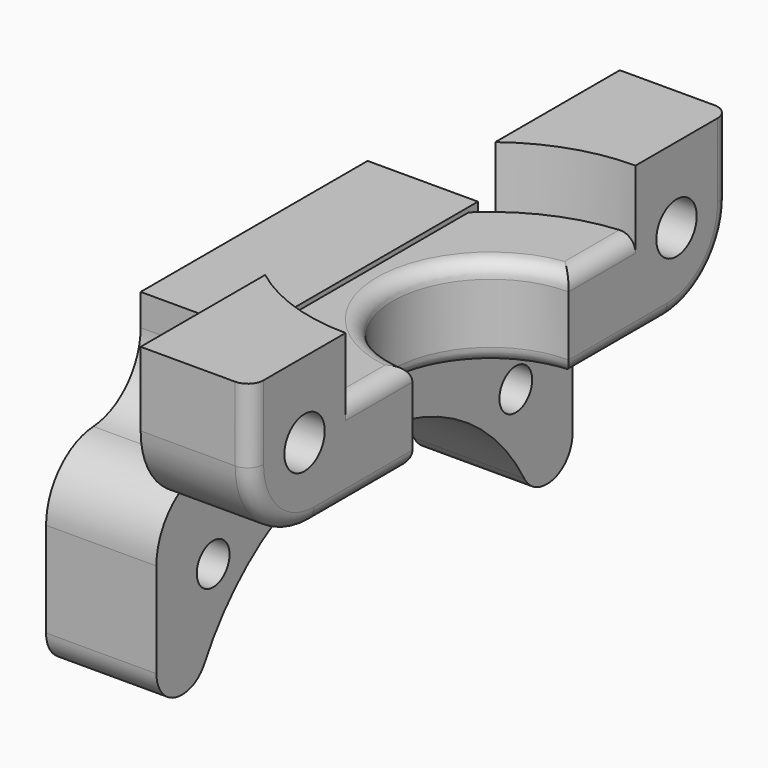
from build123d import *

# Parameters (mm, degrees)
PAD008_DEPTH    = 9.7
POCKET002_DEPTH = 3.9
PAD009_DEPTH    = 7
SKETCH048_R     = 1.6
SKETCH048_R_2   = 1.3
POCKET030_DEPTH = 15.001
FILLET006_R     = 5
FILLET007_R     = 2
FILLET008_R     = 1


with BuildPart() as part:
    # Sketch045 → Pad008 (new body)
    with BuildSketch(Plane.XY):
        with BuildLine():
            Line((-7, 19), (0, 19))
            Line((0, 19), (0, 6.2))
            ThreePointArc((0, 6.2), (-6.2, 0), (0, -6.2))
            Line((0, -6.2), (0, -19))
            Line((0, -19), (-7, -19))
            Line((-7, -19), (-7, -9.1241437954))
            ThreePointArc((-7, 9.1241437954), (-11.5, 0), (-7, -9.1241437954))
            Line((-7, 9.1241437954), (-7, 19))
        make_face()
    extrude(amount=-PAD008_DEPTH)

    # Sketch046 → Pocket002 (cut)
    with BuildSketch(Plane.XY):
        with BuildLine():
            Line((0, 11.5), (0, 6.2))
            ThreePointArc((0, 6.2), (-6.2, 0), (0, -6.2))
            Line((0, -6.2), (0, -11.5))
            ThreePointArc((0, 11.5), (-11.5, 0), (0, -11.5))
        make_face()
    extrude(amount=-POCKET002_DEPTH, mode=Mode.SUBTRACT)

    # Sketch047 → Pad009 (join)
    with BuildSketch(Plane.YZ.offset(-15)):
        with BuildLine():
            ThreePointArc((13.2003787824, -21.6), (0, -13.1), (-13.2003787824, -21.6))
            Line((-16.5, -21.6), (-13.2003787824, -21.6))
            Line((-16.5, -13.5843597113), (-16.5, -21.6))
            ThreePointArc((-12.75, -9.5921798557), (-15.4154759474, -10.8457469238), (-16.5, -13.5843597113))
            ThreePointArc((-12.75, -9.5921798557), (-10.0845240526, -8.3386127875), (-9, -5.6))
            Line((-9, -5.6), (-9, -3.6))
            Line((-9, -3.6), (9, -3.6))
            Line((9, -3.6), (9, -5.6))
            ThreePointArc((9, -5.6), (10.0845240526, -8.3386127875), (12.75, -9.5921798557))
            ThreePointArc((16.5, -13.5843597113), (15.4154759474, -10.8457469238), (12.75, -9.5921798557))
            Line((16.5, -13.5843597113), (16.5, -21.6))
            Line((16.5, -21.6), (13.2003787824, -21.6))
        make_face()
    extrude(amount=PAD009_DEPTH)

    # Sketch048 → Pocket030 (cut, through all)
    with BuildSketch(Plane.YZ):
        with Locations((-14.75, -4.8)):
            Circle(SKETCH048_R)
        with Locations((14.75, -4.8)):
            Circle(SKETCH048_R)
        with Locations((-12, -15.3)):
            Circle(SKETCH048_R_2)
        with Locations((12, -15.3)):
            Circle(SKETCH048_R_2)
    extrude(amount=-POCKET030_DEPTH, mode=Mode.SUBTRACT)

    # Fillet006
    fillet006_edges = [part.edges().sort_by_distance(p)[0] for p in [
        (-3.5, 19, -9.7),
        (-3.5, -19, -9.7),
    ]]
    fillet(fillet006_edges, radius=FILLET006_R)

    # Fillet007
    fillet007_edges = [part.edges().sort_by_distance(p)[0] for p in [
        (-11.5, -13.200379, -21.6),
        (-11.5, -16.5, -21.6),
        (-11.5, 13.200379, -21.6),
        (-11.5, 16.5, -21.6),
    ]]
    fillet(fillet007_edges, radius=FILLET007_R)

    # Fillet008
    fillet008_edges = [part.edges().sort_by_distance(p)[0] for p in [
        (-6.2, 0, -3.9),
        (-6.2, 0, -9.7),
        (0, -8.85, -3.9),
        (0, -10.1, -9.7),
        (0, 8.85, -3.9),
        (0, 10.1, -9.7),
    ]]
    fillet(fillet008_edges, radius=FILLET008_R)


solid = part.part
